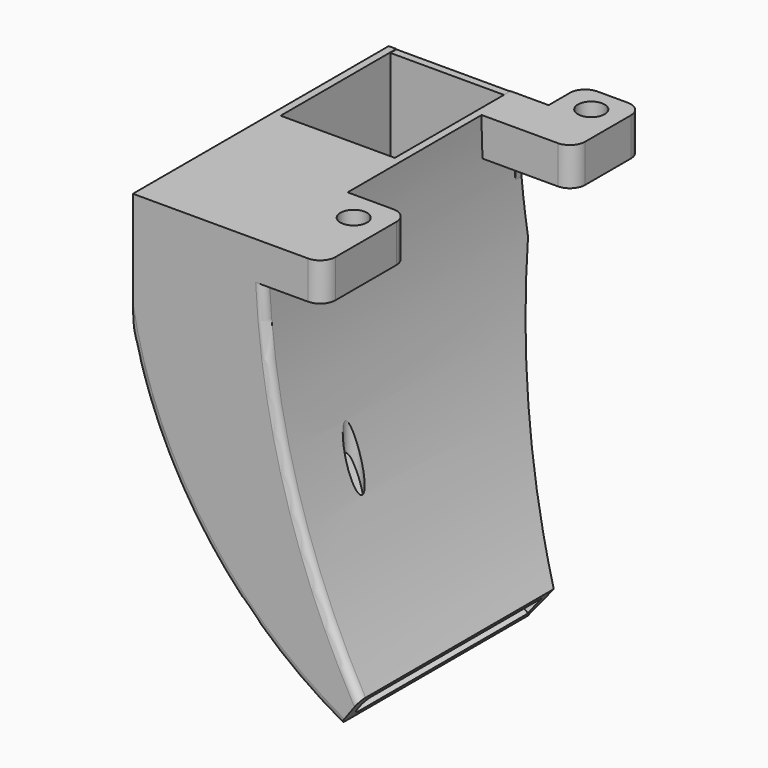
from build123d import *

# Parameters (mm, degrees)
SKETCH_W        = 30
SKETCH_H        = 42
PAD_DEPTH       = 54
POCKET_DEPTH    = 42.001
POCKET001_DEPTH = 30.001
POCKET002_DEPTH = 42.001
POCKET003_DEPTH = 40.5
SKETCH005_W     = 12.884712
SKETCH005_H     = 5
PAD001_DEPTH    = 6
SKETCH006_W     = 8
SKETCH006_H     = 5
PAD002_DEPTH    = 5.5
SKETCH007_W     = 9
SKETCH007_H     = 5
PAD003_DEPTH    = 14
SKETCH009_R     = 1.75
POCKET004_DEPTH = 6
SKETCH010_W     = 16.115288
SKETCH010_H     = 23
PAD004_DEPTH    = 1
SKETCH011_W     = 16.658894
SKETCH011_H     = 16.071619
PAD005_DEPTH    = 1
PAD006_DEPTH    = 1
SKETCH015_R     = 1.125
POCKET005_DEPTH = 54.001
CHAMFER_SIZE    = 1.4
FILLET_R        = 0.5
SKETCH014_W     = 37.032941
SKETCH014_H     = 8.623624
POCKET006_DEPTH = 5
POCKET007_DEPTH = 47.501
FILLET001_R     = 2
FILLET002_R     = 1
FILLET003_R     = 1
FILLET004_R     = 1
FILLET005_R     = 1


with BuildPart() as part:
    # Sketch → Pad (new body)
    with BuildSketch(Plane.XY):
        with Locations((-28, -29)):
            Rectangle(SKETCH_W, SKETCH_H)
    extrude(amount=-PAD_DEPTH)

    # Sketch001 (on Face3 of Pad) → Pocket (cut, through all)
    with BuildSketch(Plane.XZ.offset(50)):
        with BuildLine():
            ThreePointArc((-43, -17.3161363132), (-32.0308923047, -38.9545248813), (-13, -54))
            Line((-13, -54), (-82.3272746231, -71.6955218441))
            Line((-82.3272746231, -71.6955218441), (-43, -17.3161363132))
        make_face()
    extrude(amount=-POCKET_DEPTH, mode=Mode.SUBTRACT)

    # Sketch002 (on Face3 of Pocket) → Pocket001 (cut, through all)
    with BuildSketch(Plane.YZ.offset(-13)):
        Polygon((0, 10), (-23, -65), (20.1488759761, -57.2462846327), align=None)
    extrude(amount=-POCKET001_DEPTH, mode=Mode.SUBTRACT)

    # Sketch004 (on Face6 of Pocket001) → Pocket002 (cut, through all)
    with BuildSketch(Plane.XZ.offset(50)):
        with BuildLine():
            ThreePointArc((-26, 0), (-13.3232341465, -48.8680892812), (21.51, -85.4117117262))
            Line((21.51, -85.4117117262), (74.53, 0))
            Line((-26, 0), (74.53, 0))
        make_face()
    extrude(amount=-POCKET002_DEPTH, mode=Mode.SUBTRACT)

    # Sketch003 (on Face1 of Pocket002) → Pocket003 (cut)
    with BuildSketch(Plane(origin=(0, -8, 0), x_dir=(-1, 0, 0), z_dir=(0, 1, 0))):
        with BuildLine():
            Line((42, 3), (42, -15))
            ThreePointArc((12.43, -53.2689919013), (31.9114915655, -37.7634197527), (42, -15))
            Line((12.43, -52.0274321222), (12.43, -53.2689919013))
            ThreePointArc((12.43, -52.0274321222), (23.2887545115, -27.0145266164), (27, 0))
            Line((27, 3), (27, 0))
            Line((42, 3), (27, 3))
        make_face()
    extrude(amount=-POCKET003_DEPTH, mode=Mode.SUBTRACT)

    # Sketch005 (on Face1 of Pocket003) → Pad001 (join)
    with BuildSketch(Plane(origin=(0, -8, 0), x_dir=(-1, 0, 0), z_dir=(0, 1, 0))):
        with Locations((20.442356, -2.5)):
            Rectangle(SKETCH005_W, SKETCH005_H)
    extrude(amount=-PAD001_DEPTH)

    # Sketch006 (on Face12 of Pad001) → Pad002 (join)
    with BuildSketch(Plane(origin=(0, -8, 0), x_dir=(-1, 0, 0), z_dir=(0, 1, 0))):
        with Locations((18, -2.5)):
            Rectangle(SKETCH006_W, SKETCH006_H)
    extrude(amount=PAD002_DEPTH)

    # Sketch007 (on Face11 of Pad002) → Pad003 (join)
    with BuildSketch(Plane.XZ.offset(50)):
        with Locations((-22.5, -2.5)):
            Rectangle(SKETCH007_W, SKETCH007_H)
    extrude(amount=-PAD003_DEPTH)

    # Sketch009 (on Face25 of Pad003) → Pocket004 (cut)
    with BuildSketch(Plane.XY):
        with Locations((-18, -6)):
            Circle(SKETCH009_R)
        with Locations((-22, -40)):
            Circle(SKETCH009_R)
    extrude(amount=-POCKET004_DEPTH, mode=Mode.SUBTRACT)

    # Sketch010 (on Face27 of Pocket004) → Pad004 (join)
    with BuildSketch(Plane.XY):
        with Locations((-34.942356, -38.5)):
            Rectangle(SKETCH010_W, SKETCH010_H)
    extrude(amount=-PAD004_DEPTH)

    # Sketch011 (on Face49 of Pad004) → Pad005 (join)
    with BuildSketch(Plane(origin=(0, -8, 0), x_dir=(-1, 0, 0), z_dir=(0, 1, 0))):
        with Locations((33.892149, -8.0883895)):
            Rectangle(SKETCH011_W, SKETCH011_H)
    extrude(amount=-PAD005_DEPTH)

    # Sketch013 (on Face47 of Pad005) → Pad006 (join)
    with BuildSketch(Plane(origin=(0, -2.8030549236, 0.8596035099), x_dir=(-1, 0, 0), z_dir=(0, 0.9560542082, -0.2931899572))):
        with BuildLine():
            Line((42.333473, -17.6579), (25.319201, -17.6579))
            ThreePointArc((13, -54.3247056888), (20.7764339487, -36.5345215912), (25.319201, -17.6579))
            Line((13, -54.3247056888), (13, -56.3377401542))
            ThreePointArc((13, -56.3377401542), (32.3236400181, -40.5294570505), (42.333473, -17.6579))
        make_face()
    extrude(amount=-PAD006_DEPTH)

    # Sketch015 (on Face37 of Pad006) → Pocket005 (cut, through all)
    with BuildSketch(Plane.XY):
        with Locations((-22, -40)):
            Circle(SKETCH015_R)
    extrude(amount=-POCKET005_DEPTH, mode=Mode.SUBTRACT)

    # Chamfer
    chamfer_edges = [part.edges().sort_by_distance(p)[0] for p in [
        (-13, -34.138239, -51.07776),
    ]]
    chamfer(chamfer_edges, length=CHAMFER_SIZE)

    # Fillet
    fillet_edges = [part.edges().sort_by_distance(p)[0] for p in [
        (-13.705397, -33.952813, -49.868456),
    ]]
    fillet(fillet_edges, radius=FILLET_R)

    # Sketch014 → Pocket006 (cut)
    with BuildSketch(Plane.YZ.offset(-13)):
        with Locations((-34.3443045, -56.822496)):
            Rectangle(SKETCH014_W, SKETCH014_H)
    extrude(amount=-POCKET006_DEPTH, mode=Mode.SUBTRACT)

    # Sketch017 (on Face39 of Pocket006) → Pocket007 (cut, through all)
    with BuildSketch(Plane.XZ.offset(50)):
        Polygon((-11.053677, -46.02187), (-17.304024, -54.523899), (-5.308009, -55.921494), align=None)
    extrude(amount=-POCKET007_DEPTH, mode=Mode.SUBTRACT)

    # Fillet001
    fillet001_edges = [part.edges().sort_by_distance(p)[0] for p in [
        (-18, -36, -2.5),
        (-22, -2.5, -2.5),
        (-14, -2.5, -2.5),
        (-14, -14, -2.5),
        (-18, -50, -2.5),
    ]]
    fillet(fillet001_edges, radius=FILLET001_R)

    # Fillet002
    fillet002_edges = [part.edges().sort_by_distance(p)[0] for p in [
        (-33.031819, -50, -37.694402),
    ]]
    fillet(fillet002_edges, radius=FILLET002_R)

    # Fillet003
    fillet003_edges = [part.edges().sort_by_distance(p)[0] for p in [
        (-22.099555, -50, -27.73103),
    ]]
    fillet(fillet003_edges, radius=FILLET003_R)

    # Fillet004
    fillet004_edges = [part.edges().sort_by_distance(p)[0] for p in [
        (-22.999305, -48.5, -28.027565),
    ]]
    fillet(fillet004_edges, radius=FILLET004_R)

    # Fillet005
    fillet005_edges = [part.edges().sort_by_distance(p)[0] for p in [
        (-32.8795, -48.5, -36.469763),
    ]]
    fillet(fillet005_edges, radius=FILLET005_R)


solid = part.part
